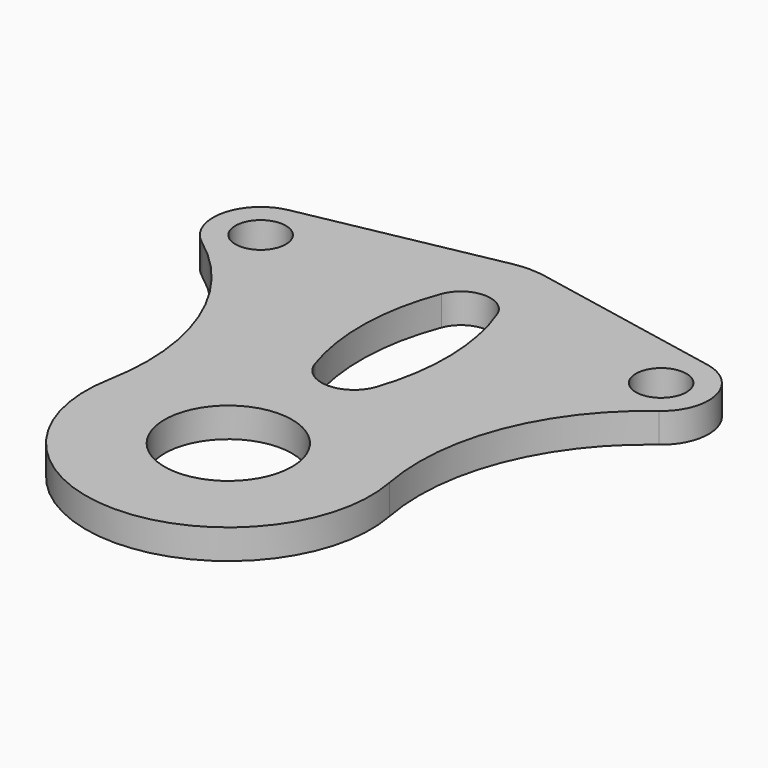
from build123d import *

# Parameters (mm, degrees)
SKETCH_R   = 8.5
SKETCH_R_2 = 21.5
PAD_DEPTH  = 10


with BuildPart() as part:
    # Sketch → Pad (new body)
    with BuildSketch(Plane.XY):
        with BuildLine():
            ThreePointArc((-47.162932, -89.074877), (0, -146), (47.162932, -89.074877))
            ThreePointArc((77.017443, -12.861504), (51.124626, -46.672731), (47.162932, -89.074877))
            ThreePointArc((77.017443, -12.861504), (83.108641, 3.517146), (70.581481, 15.700461))
            Line((5.585185, 28.457085), (70.581481, 15.700461))
            ThreePointArc((5.585185, 28.457085), (0, 29), (-5.585185, 28.457085))
            Line((-5.585185, 28.457085), (-70.581481, 15.700461))
            ThreePointArc((-70.581481, 15.700461), (-83.108641, 3.517146), (-77.017443, -12.861504))
            ThreePointArc((-47.162932, -89.074877), (-51.124626, -46.672731), (-77.017443, -12.861504))
        make_face()
        with Locations((-67.5, 0)):
            Circle(SKETCH_R, mode=Mode.SUBTRACT)
        with Locations((67.5, 0)):
            Circle(SKETCH_R, mode=Mode.SUBTRACT)
        with Locations((0, -98)):
            Circle(SKETCH_R_2, mode=Mode.SUBTRACT)
        with BuildLine():
            ThreePointArc((9.337686, 3.578773), (0, 10), (-9.337686, 3.578773))
            ThreePointArc((-9.337686, 3.578773), (-14.420663, -22.367539), (-10.427083, -48.503704))
            ThreePointArc((-10.427083, -48.503704), (0, -56), (10.427083, -48.503704))
            ThreePointArc((10.427083, -48.503704), (14.420663, -22.367539), (9.337686, 3.578773))
        make_face(mode=Mode.SUBTRACT)
    extrude(amount=PAD_DEPTH)


solid = part.part
